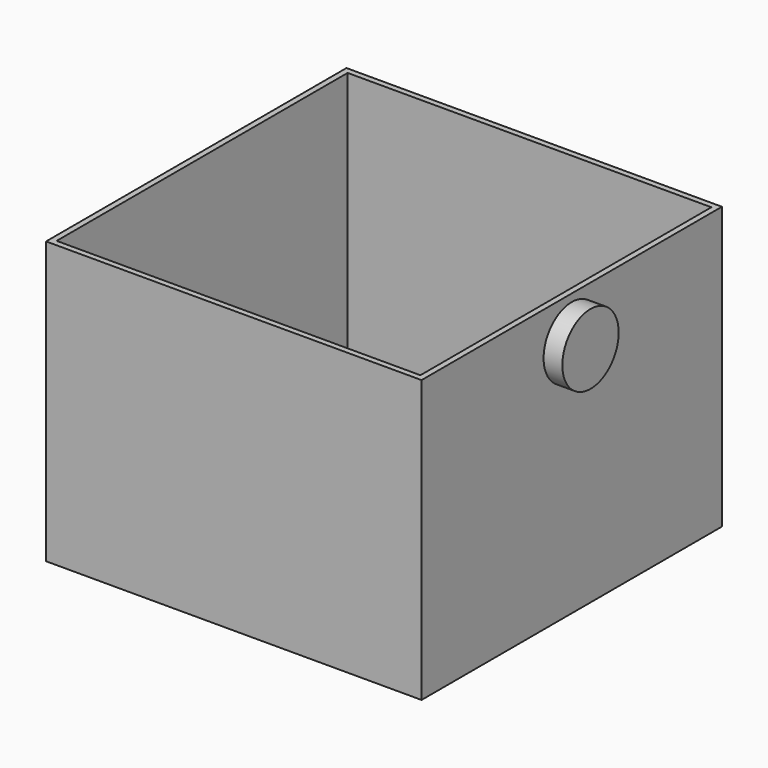
from build123d import *

# Parameters (mm, degrees)
F0_W     = 101.6
F0_H     = 76.2
F1_DEPTH = 50.8
F2_W     = 98.425
F2_H     = 98.425
F3_DEPTH = 73.025
F4_R     = 9.525
F5_DEPTH = 5.08


with BuildPart() as f1:
    # F0 (on Front) → F1 (new body, symmetric)
    with BuildSketch(Plane.XZ):
        Rectangle(F0_W, F0_H)
    extrude(amount=F1_DEPTH, both=True)

    # F2 (on face) → F3 (cut)
    with BuildSketch(Plane.XY.offset(38.1)):
        Rectangle(F2_W, F2_H)
    extrude(amount=-F3_DEPTH, mode=Mode.SUBTRACT)

    # F4 (on face) → F5 (join)
    with BuildSketch(Plane.YZ.offset(50.8)):
        with Locations((0, 26.531227)):
            Circle(F4_R)
    extrude(amount=F5_DEPTH)


solid = f1.part
